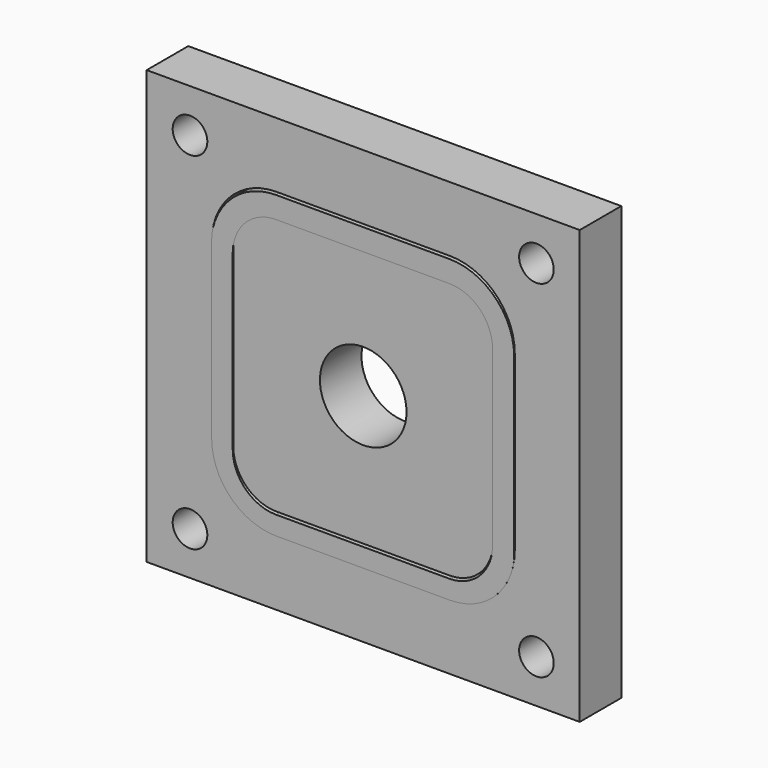
from build123d import *

# Parameters (mm, degrees)
F0_R     = 10
F1_DEPTH = 12
F0_W     = 100
F0_H     = 100
F0_R_2   = 4
F3_DEPTH = 18


with BuildPart() as f1:
    # F0 (on Front) → F1 (new body)
    with BuildSketch(Plane.XZ):
        with BuildLine():
            Line((-20, -30), (20, -30))
            ThreePointArc((20, -30), (27.0710678119, -27.0710678119), (30, -20))
            Line((30, -20), (30, 20))
            ThreePointArc((30, 20), (27.0710678119, 27.0710678119), (20, 30))
            Line((20, 30), (-20, 30))
            ThreePointArc((-20, 30), (-27.0710678119, 27.0710678119), (-30, 20))
            Line((-30, 20), (-30, -20))
            ThreePointArc((-30, -20), (-27.0710678119, -27.0710678119), (-20, -30))
        make_face()
        Circle(F0_R, mode=Mode.SUBTRACT)
    extrude(amount=F1_DEPTH)


with BuildPart() as f1b:
    # F0 (on Front) → F1, piece 2 (new body)
    with BuildSketch(Plane.XZ):
        Rectangle(F0_W, F0_H)
        with Locations((-40, -40)):
            Circle(F0_R_2, mode=Mode.SUBTRACT)
        with Locations((40, -40)):
            Circle(F0_R_2, mode=Mode.SUBTRACT)
        with Locations((-40, 40)):
            Circle(F0_R_2, mode=Mode.SUBTRACT)
        with BuildLine():
            Line((35, 20), (35, -20))
            ThreePointArc((35, -20), (30.6066017178, -30.6066017178), (20, -35))
            Line((20, -35), (-20, -35))
            ThreePointArc((-20, -35), (-30.6066017178, -30.6066017178), (-35, -20))
            Line((-35, -20), (-35, 20))
            ThreePointArc((-35, 20), (-30.6066017178, 30.6066017178), (-20, 35))
            Line((-20, 35), (20, 35))
            ThreePointArc((20, 35), (30.6066017178, 30.6066017178), (35, 20))
        make_face(mode=Mode.SUBTRACT)
        with Locations((40, 40)):
            Circle(F0_R_2, mode=Mode.SUBTRACT)
    extrude(amount=F1_DEPTH)


with BuildPart() as f3:
    # F2 (on face) → F3 (new body)
    with BuildSketch(Plane.XZ.offset(12)):
        with BuildLine():
            ThreePointArc((34.6373791876, -23.2782816413), (34.8080432822, -21.9814194015), (34.8650758789, -20.6746198051))
            Line((34.8650758789, -20.6746198051), (34.8650758789, 19.3253801949))
            ThreePointArc((34.8650758789, 19.3253801949), (30.4716775967, 29.9319819127), (19.8650758789, 34.3253801949))
            Line((19.8650758789, 34.3253801949), (-20.1349241211, 34.3253801949))
            ThreePointArc((-20.1349241211, 34.3253801949), (-29.5111113894, 31.0338007677), (-34.7723033086, 22.6036618362))
            ThreePointArc((-34.7723033086, 22.6036618362), (-34.9429674033, 21.3067995964), (-35, 20))
            Line((-35, 20), (-35, -20))
            ThreePointArc((-35, -20), (-30.6066017178, -30.6066017178), (-20, -35))
            Line((-20, -35), (20, -35))
            ThreePointArc((20, -35), (29.3761872683, -31.7084205728), (34.6373791876, -23.2782816413))
        make_face()
        with BuildLine():
            ThreePointArc((29.8650758789, -20.6746198051), (26.9361436908, -27.7456876169), (19.8650758789, -30.6746198051))
            Line((19.8650758789, -30.6746198051), (-20.1349241211, -30.6746198051))
            ThreePointArc((-20.1349241211, -30.6746198051), (-27.205991933, -27.7456876169), (-30.1349241211, -20.6746198051))
            Line((-30.1349241211, -20.6746198051), (-30.1349241211, 19.3253801949))
            ThreePointArc((-30.1349241211, 19.3253801949), (-27.205991933, 26.3964480068), (-20.1349241211, 29.3253801949))
            Line((-20.1349241211, 29.3253801949), (19.8650758789, 29.3253801949))
            ThreePointArc((19.8650758789, 29.3253801949), (26.9361436908, 26.3964480068), (29.8650758789, 19.3253801949))
            Line((29.8650758789, 19.3253801949), (29.8650758789, -20.6746198051))
        make_face(mode=Mode.SUBTRACT)
    extrude(amount=-F3_DEPTH)


solid = Compound([f1.part, f1b.part, f3.part])
